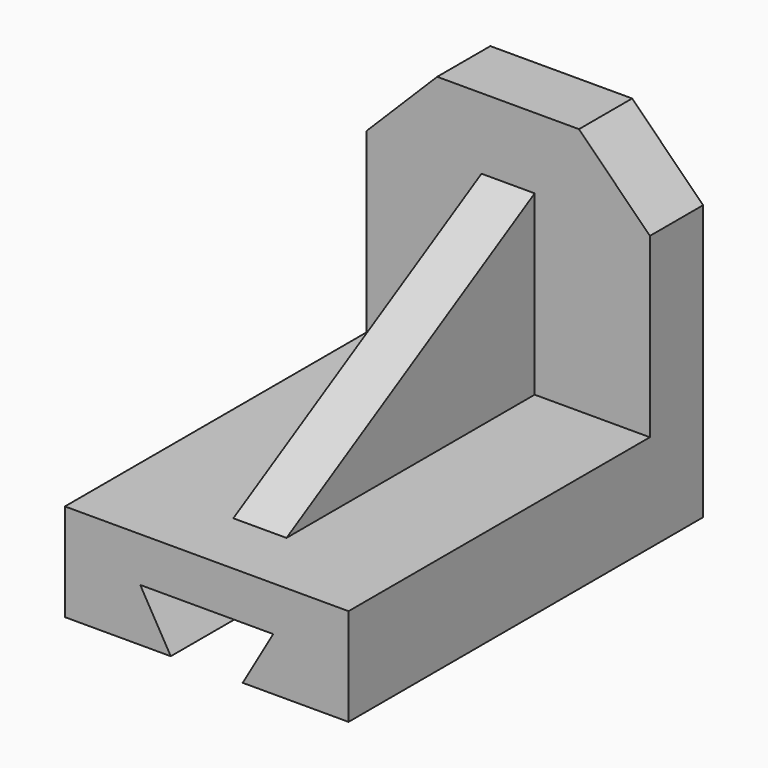
from build123d import *

# Parameters (mm, degrees)
F1_DEPTH = 1000
F0_W     = 320
F0_H     = 160
F2_DEPTH = 150
F3_W     = 120
F3_H     = 400
F4_DEPTH = 700
F6_DEPTH = 267.208


with BuildPart() as f1:
    # F0 (on Front) → F1 (new body)
    with BuildSketch(Plane.XZ):
        Polygon((0, 220), (0, 0), (238.846631, 0), (170, 119.245863), (470, 119.245863), (401.153369, 0), (640, 0), (640, 220), align=None)
    extrude(amount=F1_DEPTH)

    # F0 (on Front) → F2 (join)
    with BuildSketch(Plane.XZ):
        Polygon((0, 620), (0, 220), (640, 220), (640, 620), (480, 620), (160, 620), align=None)
        Polygon((480, 620), (640, 620), (480, 780), align=None)
        with Locations((320, 700)):
            Rectangle(F0_W, F0_H)
        Polygon((160, 780), (0, 620), (160, 620), align=None)
    extrude(amount=F2_DEPTH)

    # F3 (on face) → F4 (join)
    with BuildSketch(Plane.XZ.offset(150)):
        with Locations((320, 420)):
            Rectangle(F3_W, F3_H)
    extrude(amount=F4_DEPTH)

    # F5 (on face) → F6 (cut)
    with BuildSketch(Plane.YZ.offset(380)):
        Polygon((-850, 620), (-850, 220), (-150, 620), align=None)
    extrude(amount=-F6_DEPTH, mode=Mode.SUBTRACT)


solid = f1.part
